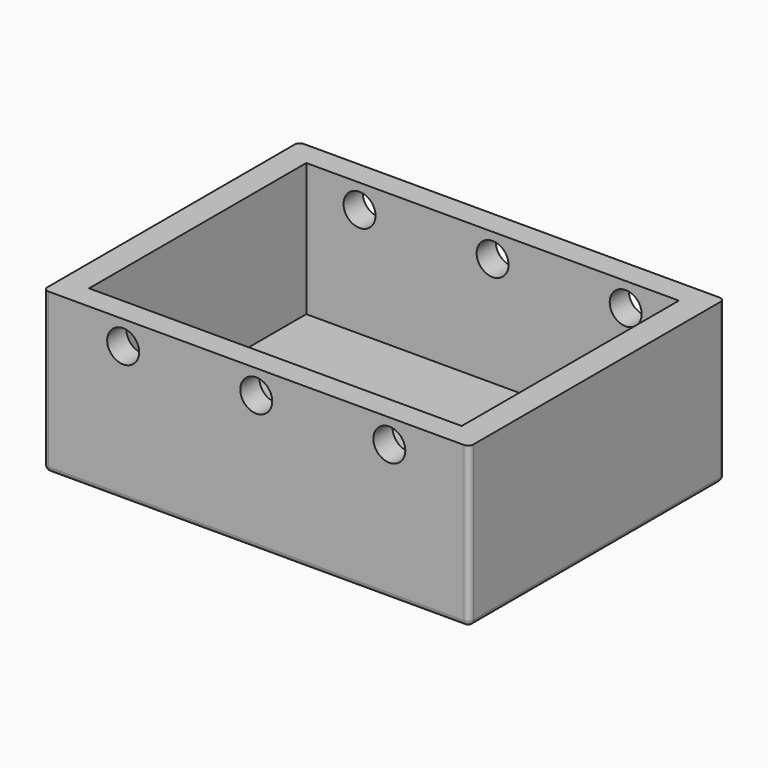
from build123d import *

# Parameters (mm, degrees)
F0_W     = 400
F0_H     = 300
F1_DEPTH = 150
F2_W     = 350
F2_H     = 255
F3_DEPTH = 125
F4_R     = 5
F5_R     = 15
F6_DEPTH = 402


with BuildPart() as f1:
    # F0 (on Top) → F1 (new body)
    with BuildSketch(Plane.XY):
        Rectangle(F0_W, F0_H)
    extrude(amount=F1_DEPTH)

    # F2 (on face) → F3 (cut)
    with BuildSketch(Plane.XY.offset(150)):
        Rectangle(F2_W, F2_H)
    extrude(amount=-F3_DEPTH, mode=Mode.SUBTRACT)

    # F4
    f4_edges = [f1.edges().sort_by_distance(p)[0] for p in [
        (200, 150, 75),
        (200, -150, 75),
        (-200, -150, 75),
        (-200, 0, 0),
        (0, -150, 0),
        (200, 0, 0),
        (0, 150, 0),
        (-200, 150, 75),
    ]]
    fillet(f4_edges, radius=F4_R)

    # F5 (on face) → F6 (cut, symmetric)
    with BuildSketch(Plane(origin=(0, -127.5, 0), x_dir=(-1, 0, 0), z_dir=(0, 1, 0))):
        with Locations((125, 127.5)):
            Circle(F5_R)
        with Locations((-125, 127.5)):
            Circle(F5_R)
        with Locations((0, 127.5)):
            Circle(F5_R)
    extrude(amount=F6_DEPTH, both=True, mode=Mode.SUBTRACT)


solid = f1.part
